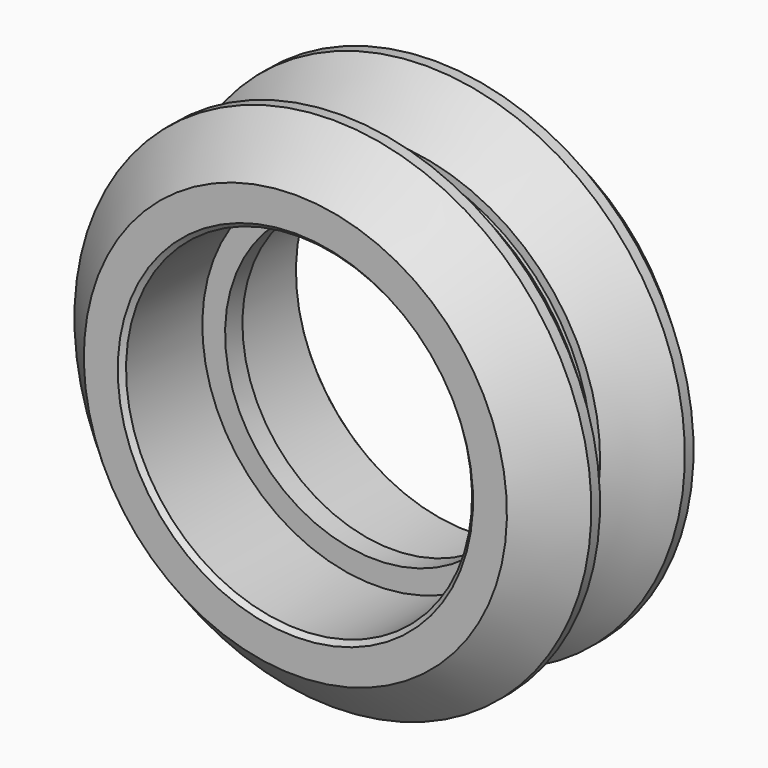
from build123d import *


with BuildPart() as f1:
    # F0 (on Right) → F1 (revolve)
    with BuildSketch(Plane.YZ):
        Polygon((-0.5, 7.9975), (-0.5, 6.945), (0.5, 6.945), (0.5, 7.9975), (4.907868, 7.9975), (5.12, 8.209632), (5.12, 9.776695), (2.951695, 11.945), (2.451695, 11.945), (0.275, 9.768305), (0.275, 9.375), (0, 9.375), (-0.275, 9.375), (-0.275, 9.768305), (-2.451695, 11.945), (-2.951695, 11.945), (-5.12, 9.776695), (-5.12, 8.209632), (-4.907868, 7.9975), align=None)
    revolve(axis=Axis((0, 0.255655, 0), (0, -1, 0)))


solid = f1.part
